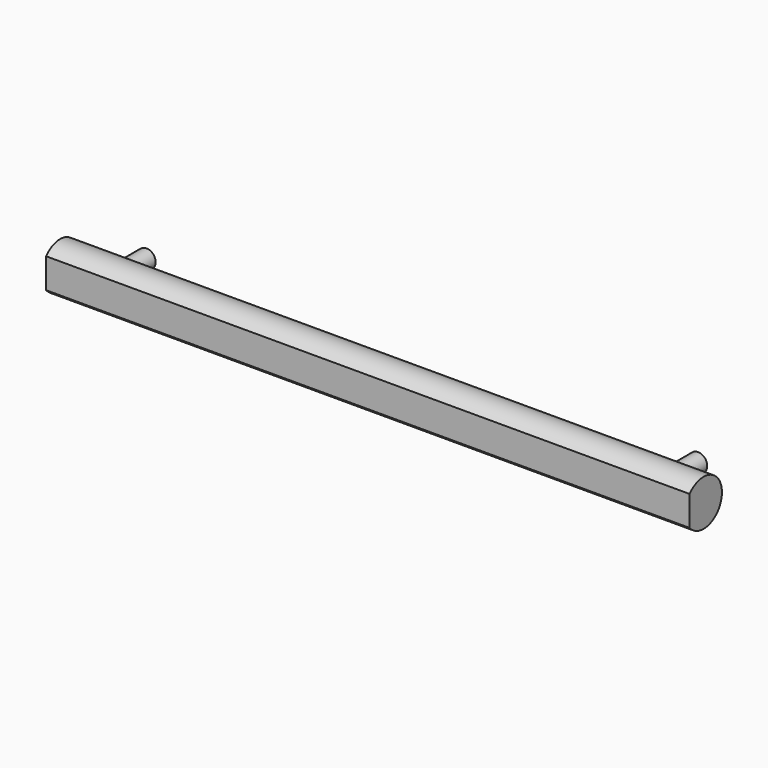
from build123d import *

# Parameters (mm, degrees)
F0_R     = 2.5
F1_DEPTH = 35
F2_R     = 1
F3_DEPTH = 5.5
F5_DEPTH = 70.0010001


with BuildPart() as f1:
    # F0 (on Right) → F1 (new body, symmetric)
    with BuildSketch(Plane.YZ):
        Circle(F0_R)
    extrude(amount=F1_DEPTH, both=True)

    # F2 (on Front) → F3 (join)
    with BuildSketch(Plane.XZ):
        with Locations((-30, 0)):
            Circle(F2_R)
        with Locations((30, 0)):
            Circle(F2_R)
    extrude(amount=-F3_DEPTH)

    # F4 (on face) → F5 (cut, through all)
    with BuildSketch(Plane.YZ.offset(35)):
        with BuildLine():
            Line((-1.9, -1.6248076809), (-1.9, 1.6248076809))
            ThreePointArc((-1.9, 1.6248076809), (-2.5, 0), (-1.9, -1.6248076809))
        make_face()
    extrude(amount=-F5_DEPTH, mode=Mode.SUBTRACT)


solid = f1.part
